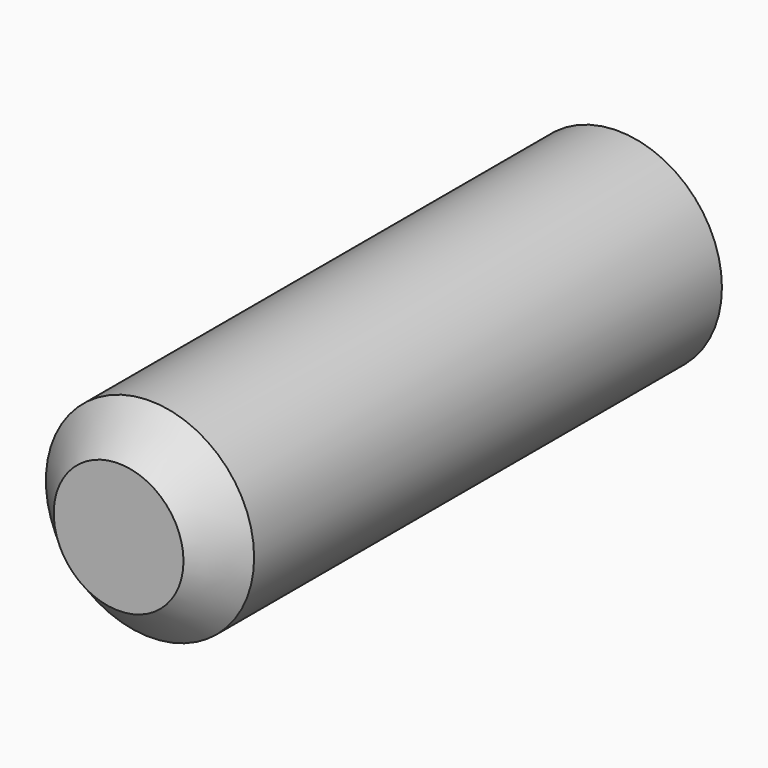
from build123d import *

# Parameters (mm, degrees)
F0_R      = 13.478369
F1_DEPTH  = 55.372
F2_SIZE   = 5.08
F1_FACE_R = 13.478369
F3_DEPTH  = 25.4


with BuildPart() as f1:
    # F0 (on Front) → F1 (new body)
    with BuildSketch(Plane.XZ):
        with Locations((-22.897817, -2.051539)):
            Circle(F0_R)
    extrude(amount=-F1_DEPTH)

    # F2
    f2_edges = [f1.edges().sort_by_distance(p)[0] for p in [
        (-36.376187, 0, -2.051539),
    ]]
    chamfer(f2_edges, length=F2_SIZE)

    # F1_face (on face) → F3 (join)
    with BuildSketch(Plane(origin=(-22.897817, 55.372, -2.051539), x_dir=(1, 0, 0), z_dir=(0, 1, 0))):
        Circle(F1_FACE_R)
    extrude(amount=F3_DEPTH)


solid = f1.part
